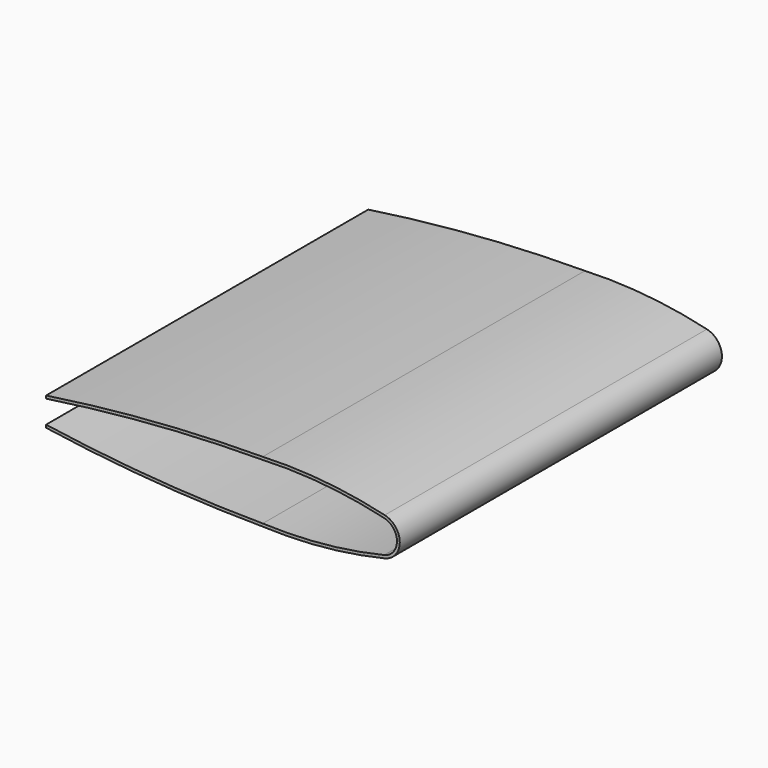
from build123d import *

# Parameters (mm, degrees)
F1_DEPTH = 228.6


with BuildPart() as f1:
    # F0 (on Front) → F1 (new body)
    with BuildSketch(Plane.XZ):
        with BuildLine():
            Line((-107.841588, 8.078232), (-107.841588, 6.490732))
            ThreePointArc((-107.841588, 6.490732), (-46.505291, 13.382145), (15.16657, 15.875))
            Line((15.16657, 15.875), (15.16657, 17.4625))
            ThreePointArc((15.16657, 17.4625), (-46.505291, 14.969645), (-107.841588, 8.078232))
        make_face()
        with BuildLine():
            Line((15.16657, 17.4625), (15.16657, 15.875))
            ThreePointArc((15.16657, 15.875), (49.826151, 14.927835), (84.033817, 9.269287))
            ThreePointArc((84.033817, 9.269287), (91.36657, 0), (84.033817, -9.269287))
            ThreePointArc((84.033817, -9.269287), (49.826151, -14.927835), (15.16657, -15.875))
            Line((15.16657, -15.875), (15.16657, -17.4625))
            ThreePointArc((15.16657, -17.4625), (50.01637, -16.518768), (84.40868, -10.811919))
            ThreePointArc((84.40868, -10.811919), (92.95407, 0), (84.40868, 10.811919))
            ThreePointArc((84.40868, 10.811919), (50.01637, 16.518768), (15.16657, 17.4625))
        make_face()
        with BuildLine():
            Line((15.16657, -17.4625), (15.16657, -15.875))
            ThreePointArc((15.16657, -15.875), (-46.505291, -13.382145), (-107.841588, -6.490732))
            Line((-107.841588, -6.490732), (-107.841588, -8.078232))
            ThreePointArc((-107.841588, -8.078232), (-46.505291, -14.969645), (15.16657, -17.4625))
        make_face()
    extrude(amount=F1_DEPTH)


solid = f1.part
